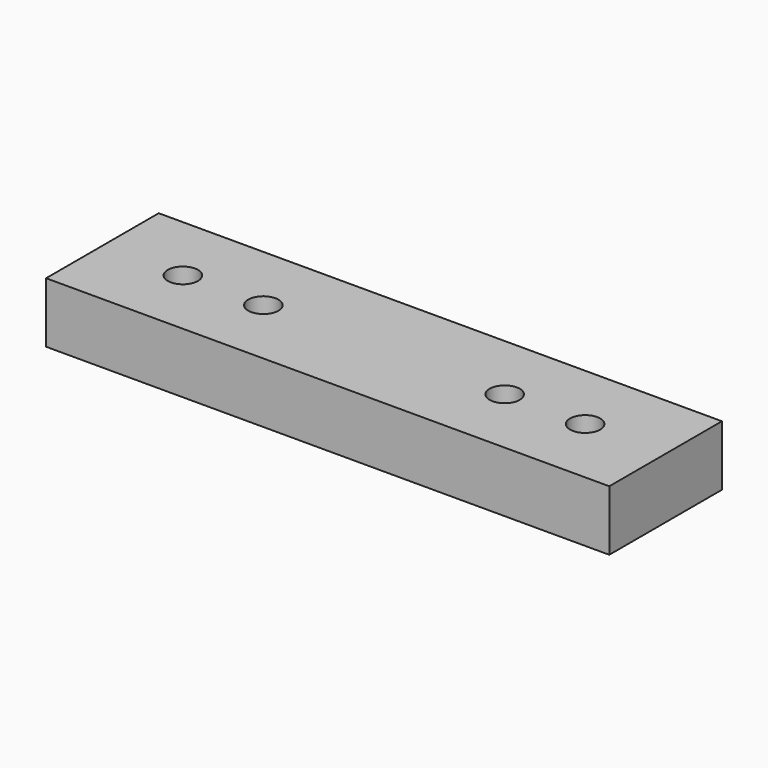
from build123d import *

# Parameters (mm, degrees)
F0_W     = 88.9
F0_H     = 38.1
F1_DEPTH = 355.6
F2_R     = 9.525
F3_DEPTH = 38.101


with BuildPart() as f1:
    # F0 (on Right) → F1 (new body)
    with BuildSketch(Plane.YZ):
        Rectangle(F0_W, F0_H)
    extrude(amount=F1_DEPTH)

    # F2 (on face) → F3 (cut, through all)
    with BuildSketch(Plane.XY.offset(19.05)):
        with Locations((50.8, 0)):
            Circle(F2_R)
        with Locations((101.6, 0)):
            Circle(F2_R)
        with Locations((254, 0)):
            Circle(F2_R)
        with Locations((304.8, 0)):
            Circle(F2_R)
    extrude(amount=-F3_DEPTH, mode=Mode.SUBTRACT)


solid = f1.part
